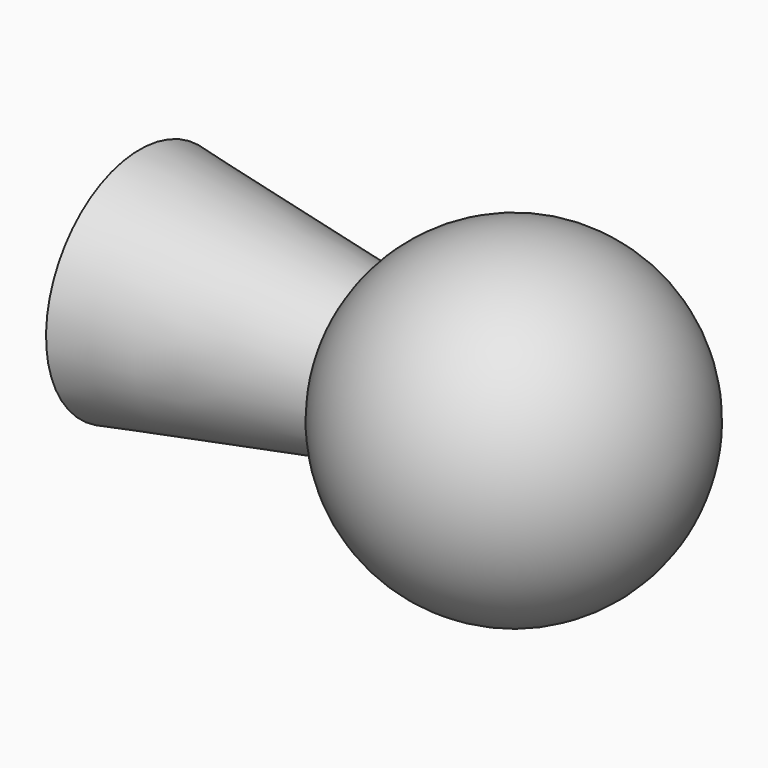
from build123d import *


with BuildPart() as f1:
    # F0 (on Front) → F1 (revolve)
    with BuildSketch(Plane.XZ):
        with BuildLine():
            Line((325.721532, -619.162915), (325.721532, -624.162915))
            Line((325.721532, -624.162915), (335.56961, -622.426433))
            ThreePointArc((335.56961, -622.426433), (334.961979, -620.844699), (334.755338, -619.162915))
            Line((334.755338, -619.162915), (325.721532, -619.162915))
        make_face()
        with BuildLine():
            ThreePointArc((334.755338, -619.162915), (334.961979, -620.844699), (335.56961, -622.426433))
            ThreePointArc((335.56961, -622.426433), (343.384186, -625.903337), (348.649465, -619.162915))
            Line((348.649465, -619.162915), (334.755338, -619.162915))
        make_face()
    revolve(axis=Axis((337.185499, 0, -619.162915), (1, 0, 0)))


solid = f1.part
